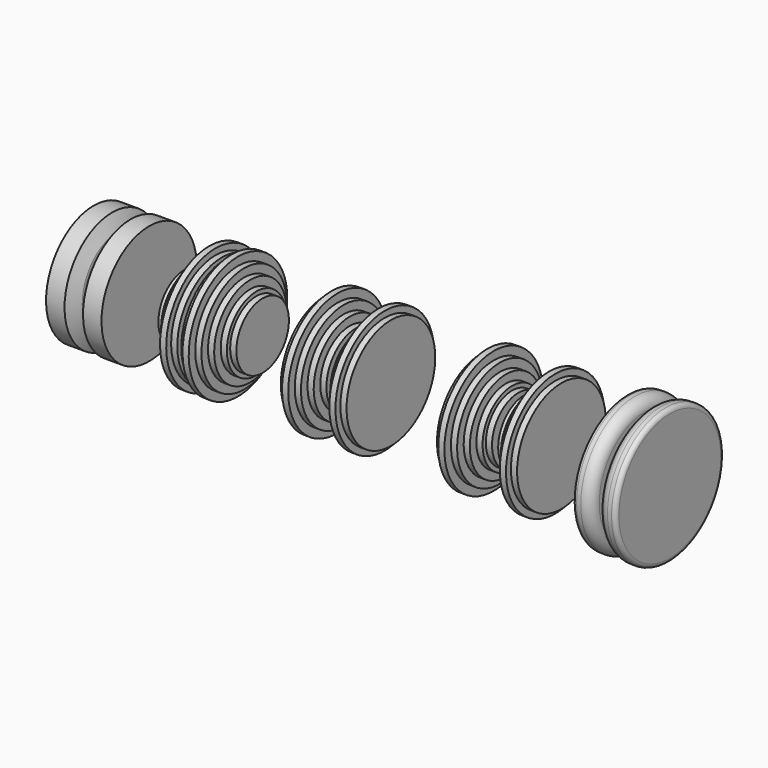
from build123d import *

# Parameters (mm, degrees)
F0_R     = 3
F1_DEPTH = 1.5
F2_W     = 1
F2_H     = 3
F2_W_2   = 1.5
F6_W     = 3
F6_H     = 4.5


with BuildPart() as f1:
    # F0 (on Right) → F1 (new body)
    with BuildSketch(Plane.YZ):
        Circle(F0_R)
    extrude(amount=F1_DEPTH)


with BuildPart() as f3:
    # F2 (on Front) → F3 (revolve)
    with BuildSketch(Plane.XZ):
        Polygon((0.024334, 3), (-0.024334, 3), (0, 0), align=None)
        Polygon((0.975666, 3), (0.024334, 3), (0, 0), (15.975666, 0), (18.975666, 0), (18.975666, 16), (15.975666, 16), (15.975666, 18), (12.975666, 18), (12.975666, 22), (9.975666, 22), (9.975666, 26), (6.975666, 26), (6.975666, 30), (3.975666, 30), (3.975666, 27), (0.975666, 27), align=None)
        Polygon((0, 0), (-0.024334, 3), (-0.975666, 3), (-0.975666, 27), (-3.975666, 27), (-3.975666, 30), (-6.975666, 30), (-6.975666, 26), (-9.975666, 26), (-9.975666, 22), (-12.975666, 22), (-12.975666, 18), (-15.975666, 18), (-15.975666, 16), (-18.975666, 16), (-18.975666, 0), (-15.986754, 0), (-15.975666, 0), align=None)
        with Locations((65.94397, 1.5)):
            Rectangle(F2_W, F2_H)
        with Locations((64.94397, 1.5)):
            Rectangle(F2_W, F2_H)
        Polygon((49.44397, 3), (49.44397, 0), (64.44397, 0), (64.44397, 3), (64.44397, 18), (61.44397, 18), (61.44397, 22), (58.44397, 22), (58.44397, 26), (55.44397, 26), (55.44397, 30), (52.44397, 30), (52.44397, 27), (49.44397, 27), align=None)
        Polygon((66.44397, 3), (66.44397, 0), (81.44397, 0), (81.44397, 3), (81.44397, 27), (78.44397, 27), (78.44397, 30), (75.44397, 30), (75.44397, 26), (72.44397, 26), (72.44397, 22), (69.44397, 22), (69.44397, 18), (66.44397, 18), align=None)
        with Locations((144.236406, 1.5)):
            Rectangle(F2_W_2, F2_H)
        Polygon((164.486406, 3), (164.486406, 27), (161.486406, 27), (161.486406, 30), (158.486406, 30), (158.486406, 26), (155.486406, 26), (155.486406, 22), (152.486406, 22), (152.486406, 18), (149.486406, 18), (149.486406, 16), (146.486406, 16), (146.486406, 3), (146.486406, 0), (164.486406, 0), align=None)
        Polygon((125.486406, 0), (143.486406, 0), (143.486406, 3), (143.486406, 16), (140.486406, 16), (140.486406, 18), (137.486406, 18), (137.486406, 22), (134.486406, 22), (134.486406, 26), (131.486406, 26), (131.486406, 30), (128.486406, 30), (128.486406, 27), (125.486406, 27), (125.486406, 3), align=None)
        with Locations((145.736406, 1.5)):
            Rectangle(F2_W_2, F2_H)
    revolve(axis=Axis((7.987833, 0, 0), (-1, 0, 0)))


with BuildPart() as f5:
    # F4 (on Front) → F5 (revolve)
    with BuildSketch(Plane.XZ):
        Polygon((-49.783069, 4.6), (-49.783069, 0), (-36.283069, 0), (-36.283069, 29), (-39.283069, 29), (-40.883069, 29), (-42.283069, 29), (-45.283069, 29), (-48.283069, 22), (-48.283069, 15.622), (-48.283069, 4.6), align=None)
        Polygon((-63.283069, 0), (-49.783069, 0), (-49.783069, 4.6), (-51.283069, 4.6), (-51.283069, 15.622), (-51.283069, 22), (-54.283069, 29), (-57.283069, 29), (-58.683069, 29), (-60.283069, 29), (-63.283069, 29), align=None)
    revolve(axis=Axis((-43.033069, 0, 0), (-1, 0, 0)))


with BuildPart() as f7:
    # F6 (on Front) → F7 (revolve)
    with BuildSketch(Plane.XZ):
        with BuildLine():
            Line((196.300903, 0), (205.300903, 0))
            Line((205.300903, 0), (205.300903, 4.5))
            Line((205.300903, 4.5), (205.300903, 28))
            ThreePointArc((205.300903, 28), (203.836437, 31.535534), (200.300903, 33))
            Line((200.300903, 33), (198.300903, 33))
            ThreePointArc((198.300903, 33), (196.88669, 32.414214), (196.300903, 31))
            Line((196.300903, 31), (196.300903, 0))
        make_face()
        with Locations((206.800903, 2.25)):
            Rectangle(F6_W, F6_H)
        with BuildLine():
            Line((208.300903, 4.5), (208.300903, 0))
            Line((208.300903, 0), (217.300903, 0))
            Line((217.300903, 0), (217.300903, 31))
            ThreePointArc((217.300903, 31), (216.715117, 32.414214), (215.300903, 33))
            Line((215.300903, 33), (213.300903, 33))
            ThreePointArc((213.300903, 33), (209.76537, 31.535534), (208.300903, 28))
            Line((208.300903, 28), (208.300903, 4.5))
        make_face()
    revolve(axis=Axis((206.800903, 0, 0), (1, 0, 0)))


solid = Compound([f1.part, f3.part, f5.part, f7.part])
